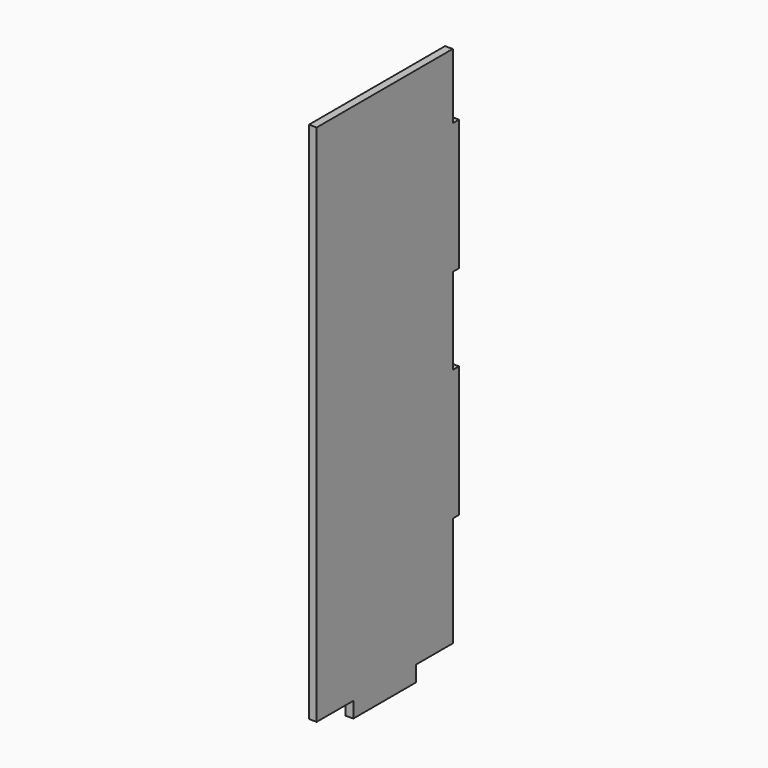
from build123d import *

# Parameters (mm, degrees)
F1_DEPTH = 2.95


with BuildPart() as f1:
    # F0 (on Right) → F1 (new body)
    with BuildSketch(Plane.YZ):
        Polygon((0, 208.051629), (0, 8.051629), (17.5, 8.051629), (17.5, 2.051629), (47.5, 2.051629), (47.5, 8.051629), (65, 8.051629), (65, 50.051629), (68, 50.051629), (68, 100.051629), (65, 100.051629), (65, 133.051629), (68, 133.051629), (68, 183.051629), (65, 183.051629), (65, 208.051629), align=None)
    extrude(amount=F1_DEPTH)


solid = f1.part
